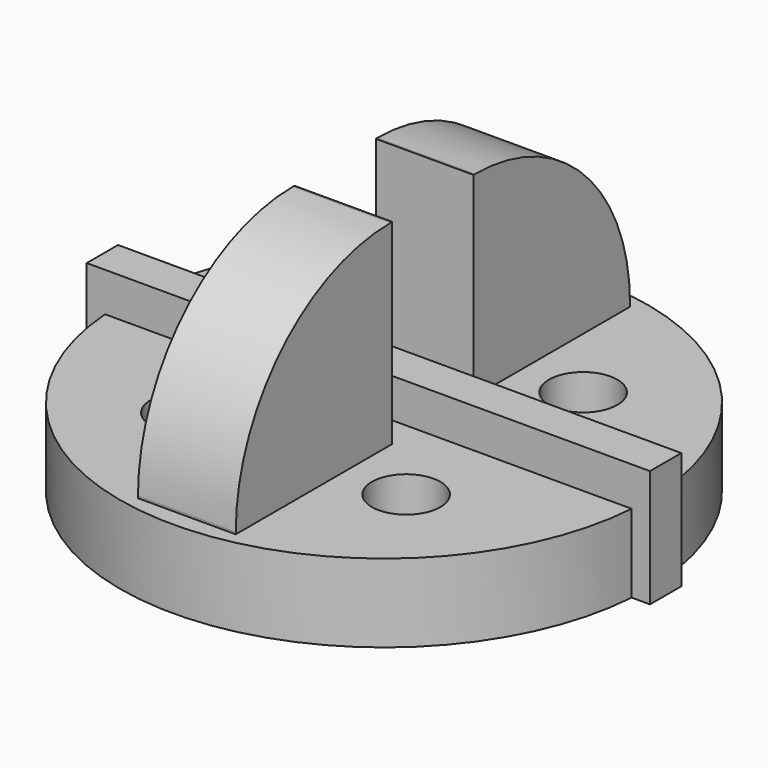
from build123d import *

# Parameters (mm, degrees)
SKETCH_R     = 13.5
SKETCH_R_2   = 1.75
PAD_DEPTH    = 4
SKETCH004_W  = 28.8
SKETCH004_H  = 2
PAD001_DEPTH = 6
SKETCH005_R  = 4
POCKET_DEPTH = 3
SKETCH006_W  = 5
SKETCH006_H  = 10
PAD002_DEPTH = 10
FILLET_R     = 9.9


with BuildPart() as part:
    # Sketch → Pad (new body)
    with BuildSketch(Plane.XY):
        Circle(SKETCH_R)
        with Locations((-5.656854, -5.656854)):
            Circle(SKETCH_R_2, mode=Mode.SUBTRACT)
        with Locations((5.656854, 5.656854)):
            Circle(SKETCH_R_2, mode=Mode.SUBTRACT)
        with Locations((-5.656854, 5.656854)):
            Circle(SKETCH_R_2, mode=Mode.SUBTRACT)
        with Locations((5.656854, -5.656854)):
            Circle(SKETCH_R_2, mode=Mode.SUBTRACT)
    extrude(amount=PAD_DEPTH)

    # Sketch004 → Pad001 (join)
    with BuildSketch(Plane(origin=(0, 0, 0), x_dir=(1, 0, 0), z_dir=(0, 0, -1))):
        Rectangle(SKETCH004_W, SKETCH004_H)
    extrude(amount=-PAD001_DEPTH)

    # Sketch005 (on Face1 of Pad001) → Pocket (cut)
    with BuildSketch(Plane(origin=(0, 0, 0), x_dir=(1, 0, 0), z_dir=(0, 0, -1))):
        Circle(SKETCH005_R)
    extrude(amount=-POCKET_DEPTH, mode=Mode.SUBTRACT)

    # Sketch006 (on Face18 of Pocket) → Pad002 (join)
    with BuildSketch(Plane.XY.offset(4)):
        with Locations((0, -7.6)):
            Rectangle(SKETCH006_W, SKETCH006_H)
        with Locations((0, 7.6)):
            Rectangle(SKETCH006_W, SKETCH006_H)
    extrude(amount=PAD002_DEPTH)

    # Fillet
    fillet_edges = [part.edges().sort_by_distance(p)[0] for p in [
        (0, 12.6, 14),
        (0, -12.6, 14),
    ]]
    fillet(fillet_edges, radius=FILLET_R)


solid = part.part
